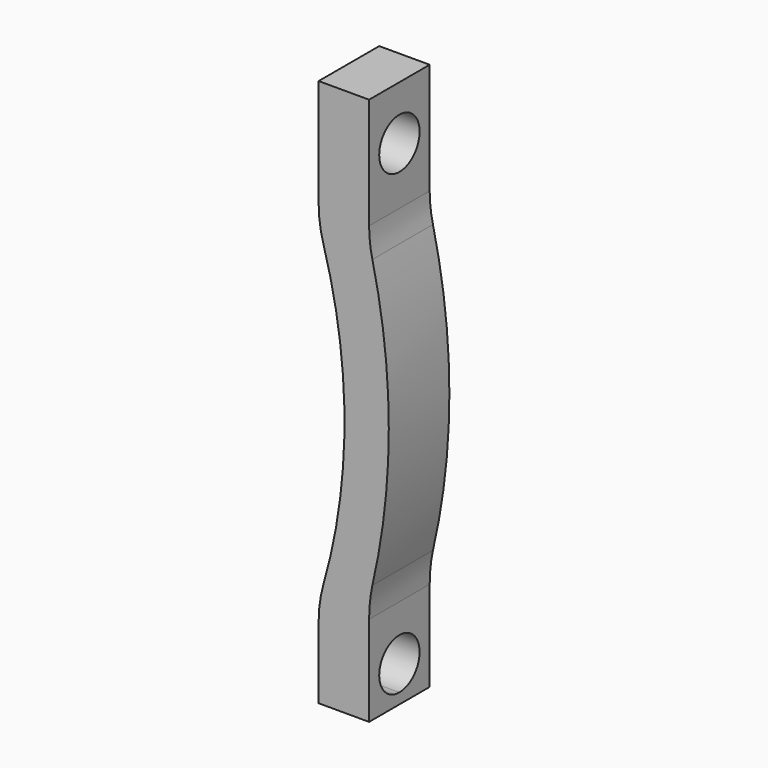
from build123d import *

# Parameters (mm, degrees)
F1_DEPTH = 3.81
F2_R     = 1.27
F3_DEPTH = 10.668
F4_W     = 2.54
F4_H     = 3.81
F5_DEPTH = 0.9906
F7_DEPTH = 25.4


with BuildPart() as f1:
    # F0 (on Front) → F1 (new body)
    with BuildSketch(Plane.XZ):
        with BuildLine():
            Line((0, 2.619967), (0, 0))
            Line((0, 0), (2.54, 0))
            Line((2.54, 0), (2.54, 3.558869))
            ThreePointArc((2.54, 3.558869), (2.581181, 4.341032), (2.704268, 5.114547))
            ThreePointArc((2.704268, 5.114547), (3.530295, 12.330484), (2.704268, 19.546421))
            ThreePointArc((2.704268, 19.546421), (2.581201, 20.259234), (2.54, 20.981419))
            Line((2.54, 20.981419), (2.54, 26.571107))
            Line((2.54, 26.571107), (0, 26.571107))
            Line((0, 26.571107), (0, 21.160008))
            ThreePointArc((0, 21.160008), (0.06165, 20.277308), (0.245405, 19.411748))
            ThreePointArc((0.245405, 19.411748), (1.301239, 11.889988), (0.245405, 4.368227))
            ThreePointArc((0.245405, 4.368227), (0.06165, 3.502667), (0, 2.619967))
        make_face()
    extrude(amount=F1_DEPTH)

    # F2 (on face) → F3 (cut)
    with BuildSketch(Plane(origin=(0, 0, 0), x_dir=(0, -1, 0), z_dir=(-1, 0, 0))):
        with Locations((1.905, 23.865558)):
            Circle(F2_R)
    extrude(amount=-F3_DEPTH, mode=Mode.SUBTRACT)

    # F4 (on face) → F5 (join)
    with BuildSketch(Plane(origin=(0, 0, 0), x_dir=(1, 0, 0), z_dir=(0, 0, -1))):
        with Locations((1.27, 1.905)):
            Rectangle(F4_W, F4_H)
    extrude(amount=F5_DEPTH)

    # F6 (on face) → F7 (cut)
    with BuildSketch(Plane(origin=(0, 0, 0), x_dir=(0, -1, 0), z_dir=(-1, 0, 0))):
        with BuildLine():
            ThreePointArc((3.175, 0.814683), (2.803026, 1.712709), (1.905, 2.084683))
            Line((1.905, 2.084683), (1.905, -0.455317))
            ThreePointArc((1.905, -0.455317), (2.803026, -0.083342), (3.175, 0.814683))
        make_face()
        with BuildLine():
            Line((1.905, -0.455317), (1.905, 2.084683))
            ThreePointArc((1.905, 2.084683), (0.635, 0.814683), (1.905, -0.455317))
        make_face()
    extrude(amount=-F7_DEPTH, mode=Mode.SUBTRACT)


solid = f1.part
